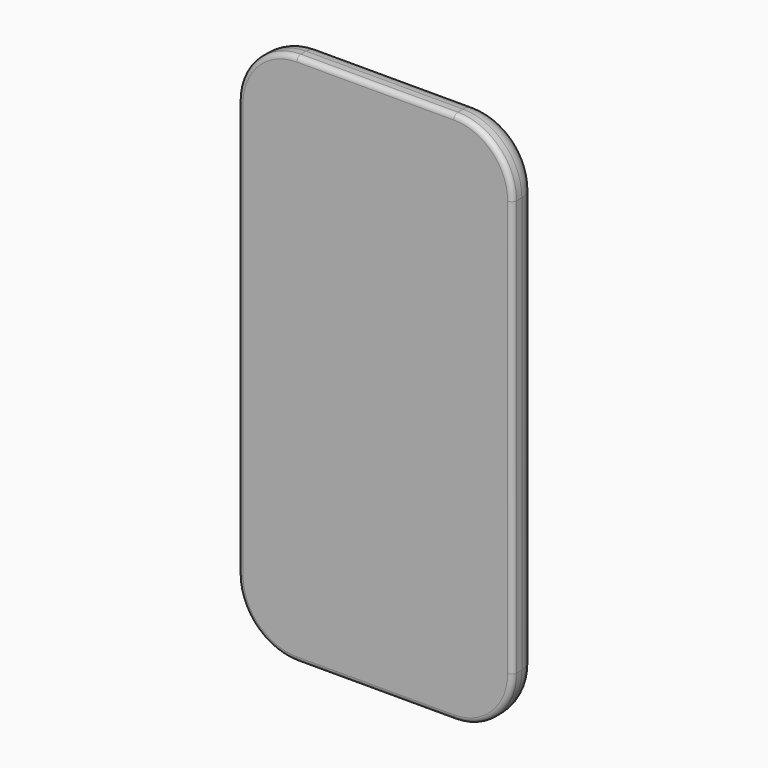
from build123d import *

# Parameters (mm, degrees)
F0_W     = 70
F0_H     = 136
F1_DEPTH = 8
F2_R     = 15
F3_R     = 5.08
F4_R     = 1.27


with BuildPart() as f1:
    # F0 (on Front) → F1 (new body)
    with BuildSketch(Plane.XZ):
        Rectangle(F0_W, F0_H)
    extrude(amount=F1_DEPTH)

    # F2
    f2_edges = [f1.edges().sort_by_distance(p)[0] for p in [
        (35, -4, 68),
        (-35, -4, 68),
        (35, -4, -68),
        (-35, -4, -68),
    ]]
    fillet(f2_edges, radius=F2_R)

    # F3
    f3_edges = [f1.edges().sort_by_distance(p)[0] for p in [
        (0, 0, 68),
        (30.606602, 0, 63.606602),
    ]]
    fillet(f3_edges, radius=F3_R)

    # F4
    f4_edges = [f1.edges().sort_by_distance(p)[0] for p in [
        (-30.606602, -8, 63.606602),
        (0, -8, 68),
    ]]
    fillet(f4_edges, radius=F4_R)


solid = f1.part
